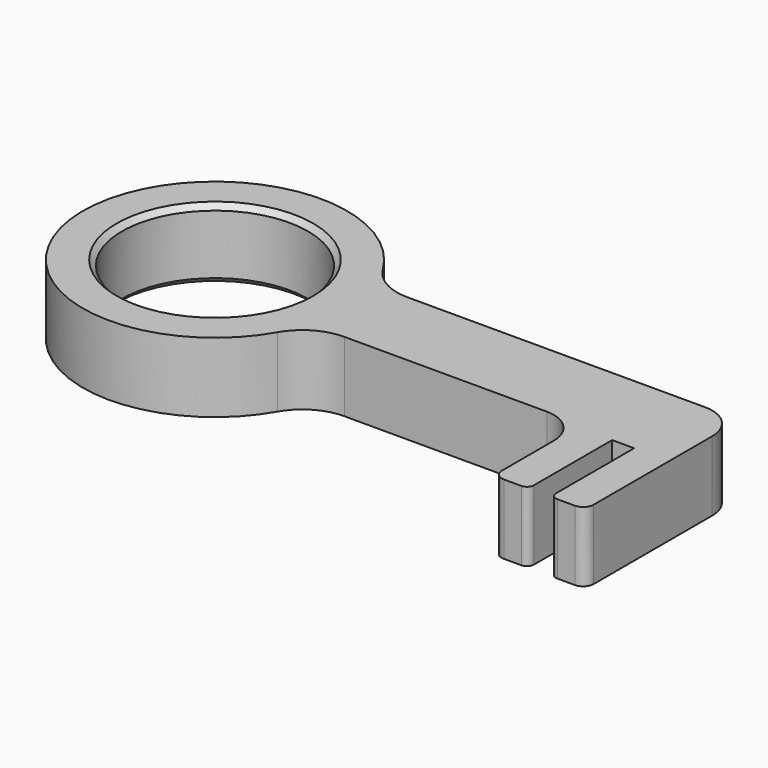
from build123d import *

# Parameters (mm, degrees)
F0_R     = 26.625
F1_DEPTH = 20
F2_SIZE  = 1.5


with BuildPart() as f1:
    # F0 (on Top) → F1 (new body)
    with BuildSketch(Plane.XY):
        with BuildLine():
            ThreePointArc((0, 2), (0.585786, 0.585786), (2, 0))
            Line((2, 0), (7, 0))
            ThreePointArc((7, 0), (9.12132, 0.87868), (10, 3))
            Line((10, 3), (10, 45.4))
            ThreePointArc((10, 45.4), (7.071068, 52.471068), (0, 55.4))
            Line((0, 55.4), (-85.179761, 55.4))
            ThreePointArc((-85.179761, 55.4), (-92.497433, 57.306044), (-97.955397, 62.539776))
            ThreePointArc((-97.955397, 62.539776), (-167.944402, 42.081483), (-97.292796, 24.043935))
            ThreePointArc((-97.292796, 24.043935), (-91.796155, 29.594114), (-84.254223, 31.628032))
            Line((-84.254223, 31.628032), (-26.3, 31.628032))
            ThreePointArc((-26.3, 31.628032), (-19.228932, 28.6991), (-16.3, 21.628032))
            Line((-16.3, 21.628032), (-16.3, 3))
            ThreePointArc((-16.3, 3), (-15.42132, 0.87868), (-13.3, 0))
            Line((-13.3, 0), (-8.3, 0))
            ThreePointArc((-8.3, 0), (-6.885786, 0.585786), (-6.3, 2))
            Line((-6.3, 2), (-6.3, 30))
            Line((-6.3, 30), (0, 30))
            Line((0, 30), (0, 2))
        make_face()
        with Locations((-130.15, 42.73201)):
            Circle(F0_R, mode=Mode.SUBTRACT)
    extrude(amount=F1_DEPTH)

    # F2
    f2_edges = [f1.edges().sort_by_distance(p)[0] for p in [
        (-156.775, 42.73201, 0),
        (-156.775, 42.73201, 20),
    ]]
    chamfer(f2_edges, length=F2_SIZE)


solid = f1.part
